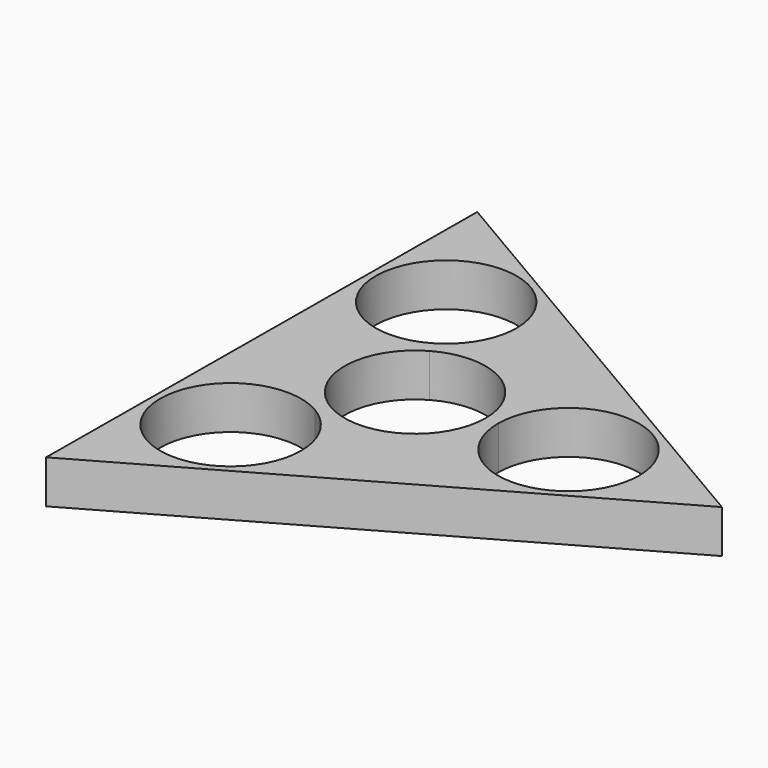
from build123d import *

# Parameters (mm, degrees)
F1_DEPTH = 6.731


with BuildPart() as f1:
    # F0 (on Top) → F1 (new body)
    with BuildSketch(Plane.XY):
        Polygon((-24.3536988721, -41.5172619551), (48.1318529847, -0.3322909218), (-23.7781541126, 41.8495528769), align=None)
        with BuildLine():
            ThreePointArc((-1.1786494361, -20.7586309775), (-21.7204951912, -26.2248205956), (-6.6121256305, -11.2721009371))
            ThreePointArc((-6.6121256305, -11.2721009371), (-2.6332036809, -15.2924413595), (-1.1786494361, -20.7586309775))
        make_face(mode=Mode.SUBTRACT)
        with BuildLine():
            ThreePointArc((-5.4332141059, 9.5624572009), (5.5319448596, 9.5056819487), (10.9982, 0))
            ThreePointArc((10.9982, 0), (10.9981344777, -0.0379638064), (10.9979379115, -0.0759271605))
            ThreePointArc((10.9979379115, -0.0759271605), (5.4332141059, -9.5624572009), (-5.5647238056, -9.4865300404))
            ThreePointArc((-5.5647238056, -9.4865300404), (-10.9979379115, 0.0759271605), (-5.4332141059, 9.5624572009))
        make_face(mode=Mode.SUBTRACT)
        with BuildLine():
            ThreePointArc((35.0641264924, -0.1661454609), (24.0279626859, -11.1642799386), (13.0679885808, -0.0902183004))
            ThreePointArc((13.0679885808, -0.0902183004), (24.1038902988, 10.8319890168), (35.0641264924, -0.1661454609))
        make_face(mode=Mode.SUBTRACT)
        with BuildLine():
            ThreePointArc((-0.8908770563, 20.9247764385), (-2.3833951076, 15.3928315788), (-6.4558629504, 11.3623192376))
            ThreePointArc((-6.4558629504, 11.3623192376), (-21.394759005, 26.4567212981), (-0.8908770563, 20.9247764385))
        make_face(mode=Mode.SUBTRACT)
    extrude(amount=F1_DEPTH)


solid = f1.part
